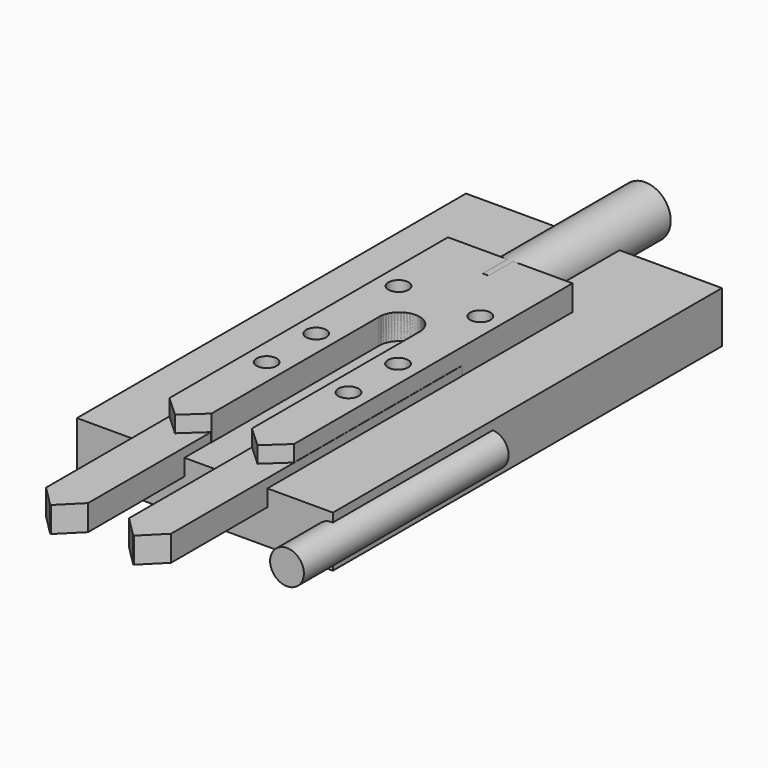
from build123d import *

# Parameters (mm, degrees)
SKETCH_R               = 1.975
PAD_DEPTH              = 9.96
SKETCH001_W            = 35
SKETCH001_H            = 45
POCKET_DEPTH           = 8.26
BOX_W                  = 8.2
BOX_H                  = 75
BOX_DEPTH              = 5
CHAMFER_SIZE           = 4
SKETCH002_R            = 2
POCKET001_DEPTH        = 5
SKETCH003_R            = 2
POCKET002_DEPTH        = 5
CYLINDER_R             = 3.3
CYLINDER_DEPTH         = 50
CYLINDER_ROLL_ANGLE    = 90
SKETCH004_W            = 50
SKETCH004_H            = 95
PAD001_DEPTH           = 5
CYLINDER001_R          = 5
CYLINDER001_DEPTH      = 39
CYLINDER001_ROLL_ANGLE = 90
SKETCH005_R            = 1.975
PAD002_DEPTH           = 9.96


with BuildPart() as pocket:
    # Sketch → Pad (new body)
    with BuildSketch(Plane.XY):
        with BuildLine():
            Line((-12.165, 27.05), (12.165, 27.05))
            Line((12.165, 27.05), (12.165, -40.95))
            Line((12.165, -40.95), (8.0575, -44.756369))
            Line((8.0575, -44.756369), (3.95, -40.95))
            Line((3.95, -40.95), (3.95, -1.4e-05))
            ThreePointArc((3.95, -1.4e-05), (0, 3.95), (-3.95, -1.4e-05))
            Line((-3.95, -1.4e-05), (-3.95, -40.95))
            Line((-3.95, -40.95), (-8.0575, -44.756369))
            Line((-8.0575, -44.756369), (-12.165, -40.95))
            Line((-12.165, -40.95), (-12.165, 27.05))
        make_face()
        with Locations((-7.99, 9.765)):
            Circle(SKETCH_R, mode=Mode.SUBTRACT)
        with Locations((7.99, 9.765)):
            Circle(SKETCH_R, mode=Mode.SUBTRACT)
        with Locations((-7.99, -10.335)):
            Circle(SKETCH_R, mode=Mode.SUBTRACT)
        with Locations((7.99, -10.335)):
            Circle(SKETCH_R, mode=Mode.SUBTRACT)
        with Locations((-7.99, -22.435)):
            Circle(SKETCH_R, mode=Mode.SUBTRACT)
        with Locations((7.99, -22.435)):
            Circle(SKETCH_R, mode=Mode.SUBTRACT)
    extrude(amount=PAD_DEPTH)

    # Sketch001 → Pocket (cut)
    with BuildSketch(Plane.XY.offset(9.96)):
        with Locations((0, -22.5)):
            Rectangle(SKETCH001_W, SKETCH001_H)
    extrude(amount=-POCKET_DEPTH, mode=Mode.SUBTRACT)


with BuildPart() as chamfer_body:
    # Box → Box (new body)
    with BuildSketch(Plane(origin=(-12.203933, -75.037727, 1.770909), x_dir=(1, 0, 0), z_dir=(0, 0, 1))):
        with Locations((4.1, 37.5)):
            Rectangle(BOX_W, BOX_H)
    extrude(amount=BOX_DEPTH)

    # Chamfer
    chamfer_edges = [chamfer_body.edges().sort_by_distance(p)[0] for p in [
        (-4.003933, -75.037727, 4.270909),
        (-12.203933, -75.037727, 4.270909),
    ]]
    chamfer(chamfer_edges, length=CHAMFER_SIZE)


with BuildPart() as pocket001:
    # Part__Mirroring: instance of Chamfer body
    add(chamfer_body.part.mirror(Plane(origin=(0, 0, 0), x_dir=(0, -1, 0), z_dir=(1, 0, 0))))

    # Sketch002 → Pocket001 (cut)
    with BuildSketch(Plane(origin=(0, 0, 1.770909), x_dir=(1, 0, 0), z_dir=(0, 0, -1))):
        with Locations((8, 22.4)):
            Circle(SKETCH002_R)
        with Locations((8, 10.3)):
            Circle(SKETCH002_R)
    extrude(amount=-POCKET001_DEPTH, mode=Mode.SUBTRACT)


with BuildPart() as pocket002:
    # Pocket002 base: copy of Chamfer body
    add(chamfer_body.part)

    # Sketch003 → Pocket002 (cut)
    with BuildSketch(Plane(origin=(-12.203933, -75.037727, 1.770909), x_dir=(1, 0, 0), z_dir=(0, 0, -1))):
        with Locations((4.2, -52.6)):
            Circle(SKETCH003_R)
        with Locations((4.2, -64.7)):
            Circle(SKETCH003_R)
    extrude(amount=-POCKET002_DEPTH, mode=Mode.SUBTRACT)


with BuildPart() as cylinder:
    # Cylinder → Cylinder (new body)
    with BuildSketch(Plane.XY):
        Circle(CYLINDER_R)
    extrude(amount=CYLINDER_DEPTH)


with BuildPart() as cylinder_1:
    # Cylinder roll: moved
    add(cylinder.part.rotate(Axis((0, 0, 0), (1, 0, 0)), CYLINDER_ROLL_ANGLE))


with BuildPart() as cylinder_2:
    # Cylinder placement: moved
    add(cylinder_1.part.moved(Location((24.786276, -8.445304, 4e-06))))


with BuildPart() as pad001:
    # Sketch004 → Pad001 (new body, symmetric)
    with BuildSketch(Plane.XY):
        Rectangle(SKETCH004_W, SKETCH004_H)
    extrude(amount=PAD001_DEPTH, both=True)


with BuildPart() as cylinder001:
    # Cylinder001 → Cylinder001 (new body)
    with BuildSketch(Plane.XY):
        Circle(CYLINDER001_R)
    extrude(amount=CYLINDER001_DEPTH)


with BuildPart() as cylinder001_1:
    # Cylinder001 roll: moved
    add(cylinder001.part.rotate(Axis((0, 0, 0), (1, 0, 0)), CYLINDER001_ROLL_ANGLE))


with BuildPart() as cylinder001_2:
    # Cylinder001 placement: moved
    add(cylinder001_1.part.moved(Location((0, 60, 5))))


with BuildPart() as pad002:
    # Sketch005 → Pad002 (new body)
    with BuildSketch(Plane.XY):
        with BuildLine():
            Line((-12.165, 27.05), (12.165, 27.05))
            Line((12.165, 27.05), (12.165, -40.95))
            Line((12.165, -40.95), (8.0575, -44.756369))
            Line((8.0575, -44.756369), (3.95, -40.95))
            Line((3.95, -40.95), (3.95, -1.4e-05))
            ThreePointArc((3.95, -1.4e-05), (0, 3.95), (-3.95, -1.4e-05))
            Line((-3.95, -1.4e-05), (-3.95, -40.95))
            Line((-3.95, -40.95), (-8.0575, -44.756369))
            Line((-8.0575, -44.756369), (-12.165, -40.95))
            Line((-12.165, -40.95), (-12.165, 27.05))
        make_face()
        with Locations((-7.99, 9.765)):
            Circle(SKETCH005_R, mode=Mode.SUBTRACT)
        with Locations((7.99, 9.765)):
            Circle(SKETCH005_R, mode=Mode.SUBTRACT)
        with Locations((-7.99, -10.335)):
            Circle(SKETCH005_R, mode=Mode.SUBTRACT)
        with Locations((7.99, -10.335)):
            Circle(SKETCH005_R, mode=Mode.SUBTRACT)
        with Locations((-7.99, -22.435)):
            Circle(SKETCH005_R, mode=Mode.SUBTRACT)
        with Locations((7.99, -22.435)):
            Circle(SKETCH005_R, mode=Mode.SUBTRACT)
    extrude(amount=PAD002_DEPTH)


solid = Compound([pocket.part, pocket001.part, pocket002.part, cylinder_2.part, pad001.part, cylinder001_2.part, pad002.part])
